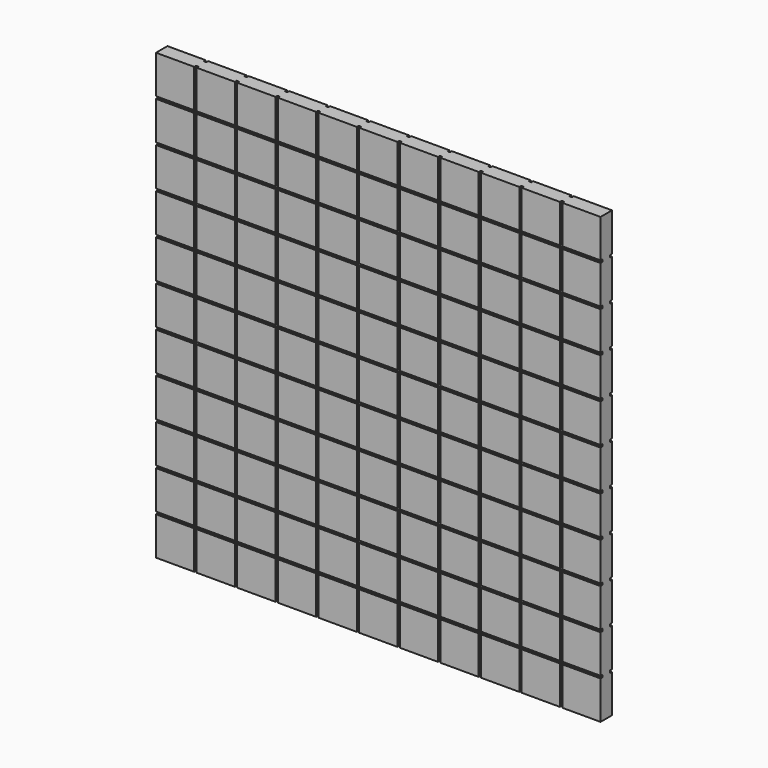
from build123d import *

# Parameters (mm, degrees)
F0_W     = 590.55
F0_H     = 590.55
F1_DEPTH = 19.05
F2_W     = 3.175
F2_H     = 590.55
F3_DEPTH = 3.175
F4_W     = 590.55
F4_H     = 3.175
F5_DEPTH = 3.175
F6_W     = 3.175
F6_H     = 590.55
F7_DEPTH = 3.175
F8_W     = 590.55
F8_H     = 3.175
F9_DEPTH = 3.175


with BuildPart() as f1:
    # F0 (on Front) → F1 (new body)
    with BuildSketch(Plane.XZ):
        Rectangle(F0_W, F0_H)
    extrude(amount=F1_DEPTH)

    # F2 (on face) → F3 (cut)
    with BuildSketch(Plane.XZ.offset(19.05)):
        with Locations((-242.8875, 0)):
            Rectangle(F2_W, F2_H)
        with Locations((-188.9125, 0)):
            Rectangle(F2_W, F2_H)
        with Locations((-134.9375, 0)):
            Rectangle(F2_W, F2_H)
        with Locations((-80.9625, 0)):
            Rectangle(F2_W, F2_H)
        with Locations((-26.9875, 0)):
            Rectangle(F2_W, F2_H)
        with Locations((26.9875, 0)):
            Rectangle(F2_W, F2_H)
        with Locations((80.9625, 0)):
            Rectangle(F2_W, F2_H)
        with Locations((134.9375, 0)):
            Rectangle(F2_W, F2_H)
        with Locations((188.9125, 0)):
            Rectangle(F2_W, F2_H)
        with Locations((242.8875, 0)):
            Rectangle(F2_W, F2_H)
    extrude(amount=-F3_DEPTH, mode=Mode.SUBTRACT)

    # F4 (on face) → F5 (cut)
    with BuildSketch(Plane.XZ.offset(19.05)):
        with Locations((0, 242.8875)):
            Rectangle(F4_W, F4_H)
        with Locations((0, 188.9125)):
            Rectangle(F4_W, F4_H)
        with Locations((0, 134.9375)):
            Rectangle(F4_W, F4_H)
        with Locations((0, 80.9625)):
            Rectangle(F4_W, F4_H)
        with Locations((0, 26.9875)):
            Rectangle(F4_W, F4_H)
        with Locations((0, -26.9875)):
            Rectangle(F4_W, F4_H)
        with Locations((0, -80.9625)):
            Rectangle(F4_W, F4_H)
        with Locations((0, -134.9375)):
            Rectangle(F4_W, F4_H)
        with Locations((0, -188.9125)):
            Rectangle(F4_W, F4_H)
        with Locations((0, -242.8875)):
            Rectangle(F4_W, F4_H)
    extrude(amount=-F5_DEPTH, mode=Mode.SUBTRACT)

    # F6 (on face) → F7 (cut)
    with BuildSketch(Plane(origin=(0, 0, 0), x_dir=(-1, 0, 0), z_dir=(0, 1, 0))):
        with Locations((242.8875, 0)):
            Rectangle(F6_W, F6_H)
        with Locations((188.9125, 0)):
            Rectangle(F6_W, F6_H)
        with Locations((134.9375, 0)):
            Rectangle(F6_W, F6_H)
        with Locations((80.9625, 0)):
            Rectangle(F6_W, F6_H)
        with Locations((26.9875, 0)):
            Rectangle(F6_W, F6_H)
        with Locations((-26.9875, 0)):
            Rectangle(F6_W, F6_H)
        with Locations((-80.9625, 0)):
            Rectangle(F6_W, F6_H)
        with Locations((-134.9375, 0)):
            Rectangle(F6_W, F6_H)
        with Locations((-188.9125, 0)):
            Rectangle(F6_W, F6_H)
        with Locations((-242.8875, 0)):
            Rectangle(F6_W, F6_H)
    extrude(amount=-F7_DEPTH, mode=Mode.SUBTRACT)

    # F8 (on face) → F9 (cut)
    with BuildSketch(Plane.XZ):
        with Locations((0, 188.9125)):
            Rectangle(F8_W, F8_H)
        with Locations((0, 242.8875)):
            Rectangle(F8_W, F8_H)
        with Locations((0, 134.9375)):
            Rectangle(F8_W, F8_H)
        with Locations((0, 80.9625)):
            Rectangle(F8_W, F8_H)
        with Locations((0, 26.9875)):
            Rectangle(F8_W, F8_H)
        with Locations((0, -26.9875)):
            Rectangle(F8_W, F8_H)
        with Locations((0, -80.9625)):
            Rectangle(F8_W, F8_H)
        with Locations((0, -134.9375)):
            Rectangle(F8_W, F8_H)
        with Locations((0, -188.9125)):
            Rectangle(F8_W, F8_H)
        with Locations((0, -242.8875)):
            Rectangle(F8_W, F8_H)
    extrude(amount=F9_DEPTH, mode=Mode.SUBTRACT)


solid = f1.part
